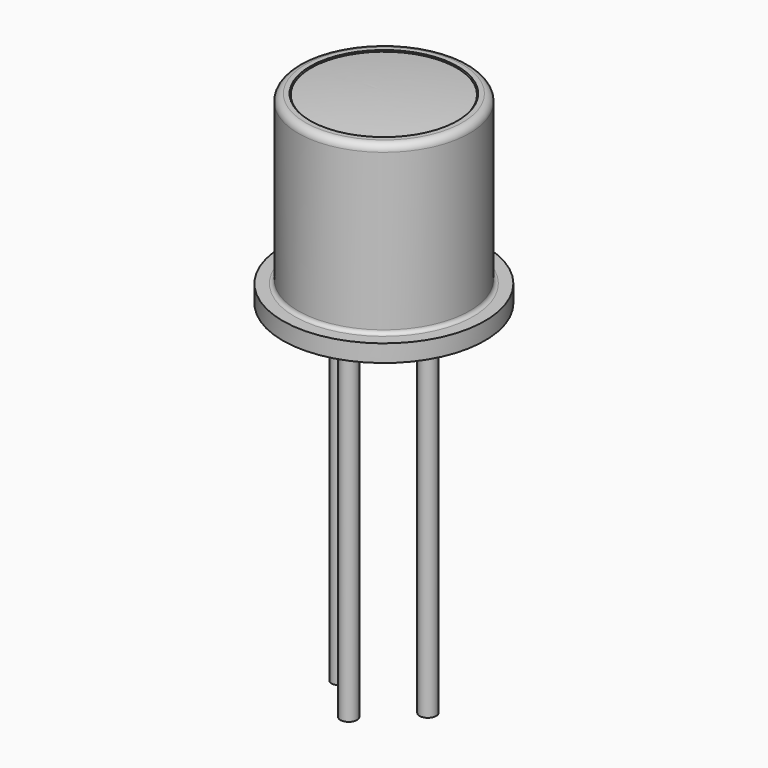
from build123d import *

# Parameters (mm, degrees)
SKETCH_R     = 0.24
PAD_DEPTH    = 10
SKETCH001_R  = 0.24
PAD002_DEPTH = 10
PAD003_DEPTH = 0.5
SKETCH005_R  = 0.24
PAD004_DEPTH = 10


with BuildPart() as pad:
    # Sketch → Pad (new body)
    with BuildSketch(Plane.XY.offset(5)):
        Circle(SKETCH_R)
    extrude(amount=-PAD_DEPTH)


with BuildPart() as pad002:
    # Sketch001 → Pad002 (new body)
    with BuildSketch(Plane.XY.offset(5)):
        with Locations((2.54, 0)):
            Circle(SKETCH001_R)
    extrude(amount=-PAD002_DEPTH)


with BuildPart() as revolution:
    # Sketch003 → Revolution (revolve)
    with BuildSketch(Plane.XZ):
        with BuildLine():
            Line((1.27, 5), (-1.65, 5))
            Line((-1.65, 5), (-1.65, 5.5))
            Line((-1.65, 5.5), (-1.311931, 5.502782))
            ThreePointArc((-1.311931, 5.502782), (-1.236266, 5.534671), (-1.205, 5.610596))
            Line((-1.205, 5.610596), (-1.205, 10.123031))
            ThreePointArc((-0.998031, 10.33), (-1.14438, 10.26938), (-1.205, 10.123031))
            Line((-0.857826, 10.33), (-0.998031, 10.33))
            Line((-0.857826, 10.33), (-0.857826, 5.672898))
            Line((-0.857826, 5.672898), (1.27, 5.672898))
            Line((1.27, 5.672898), (1.27, 5))
        make_face()
    revolve(axis=Axis((1.27, 0, 2.550668), (0, 0, 1)))


with BuildPart() as pad003:
    # Sketch004 → Pad003 (new body)
    with BuildSketch(Plane.XY.offset(5)):
        Polygon((1.57052, 0.30052), (-1.356902, 3.227942), (-1.957942, 2.626902), (0.96948, -0.30052), align=None)
    extrude(amount=PAD003_DEPTH)


with BuildPart() as pad004:
    # Sketch005 → Pad004 (new body)
    with BuildSketch(Plane.XY.offset(5)):
        with Locations((1.27, -1.27)):
            Circle(SKETCH005_R)
    extrude(amount=-PAD004_DEPTH)


with BuildPart() as revolution001:
    # Sketch006 → Revolution001 (revolve)
    with BuildSketch(Plane.XZ):
        with BuildLine():
            ThreePointArc((1.27, 10.4), (0.218381, 10.374986), (-0.83086, 10.3))
            Line((-0.83086, 9.4), (-0.83086, 10.3))
            Line((1.27, 9.4), (-0.83086, 9.4))
            Line((1.27, 10.4), (1.27, 9.4))
        make_face()
    revolve(axis=Axis((1.27, 0, 10.454185), (0, 0, -1)))


solid = Compound([pad.part, pad002.part, revolution.part, pad003.part, pad004.part, revolution001.part])
